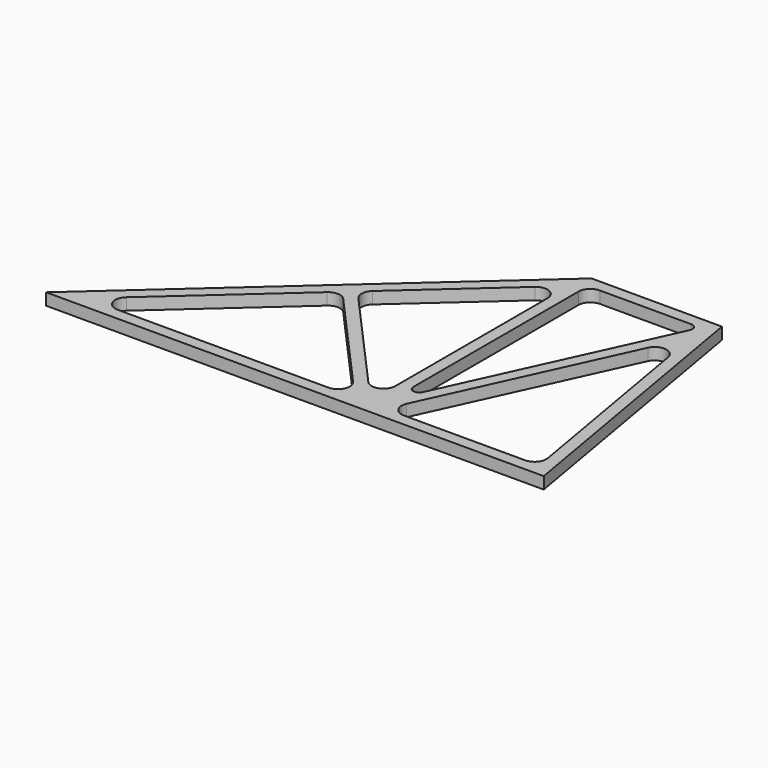
from build123d import *

# Parameters (mm, degrees)
F1_DEPTH = 12.7


with BuildPart() as f1:
    # F0 (on Top) → F1 (new body)
    with BuildSketch(Plane.XY):
        Polygon((219.786288, 270.0056), (-120.990471, -34.7944), (412.409529, -34.7944), (359.51203, 270.0056), align=None)
        with BuildLine():
            ThreePointArc((-54.492408, -22.0944), (-66.356397, -13.92604), (-62.959075, 0.071621))
            Line((-62.959075, 0.071621), (62.597587, 112.372913))
            ThreePointArc((62.597587, 112.372913), (71.770904, 115.587217), (80.530275, 111.373559))
            Line((80.530275, 111.373559), (180.975604, -0.927733))
            ThreePointArc((180.975604, -0.927733), (183.103044, -14.579153), (171.509583, -22.0944))
            Line((171.509583, -22.0944), (-54.492408, -22.0944))
        make_face(mode=Mode.SUBTRACT)
        with BuildLine():
            ThreePointArc((213.436288, 15.079148), (205.267929, 3.215159), (191.270267, 6.612481))
            Line((191.270267, 6.612481), (89.996295, 119.840225))
            ThreePointArc((89.996295, 119.840225), (86.781991, 129.013542), (90.995649, 137.772912))
            Line((90.995649, 137.772912), (192.269622, 228.355107))
            ThreePointArc((192.269622, 228.355107), (205.921042, 230.482547), (213.436288, 218.889086))
            Line((213.436288, 218.889086), (213.436288, 15.079148))
        make_face(mode=Mode.SUBTRACT)
        with BuildLine():
            ThreePointArc((335.022059, 201.344663), (348.200544, 208.646823), (359.079772, 198.223945))
            Line((359.079772, 198.223945), (394.734689, -7.222798))
            ThreePointArc((394.734689, -7.222798), (391.939481, -17.570911), (382.22173, -22.0944))
            Line((382.22173, -22.0944), (252.386372, -22.0944))
            ThreePointArc((252.386372, -22.0944), (241.697535, -16.252881), (240.841618, -4.102079))
            Line((240.841618, -4.102079), (335.022059, 201.344663))
        make_face(mode=Mode.SUBTRACT)
        with BuildLine():
            ThreePointArc((226.13628, 244.6056), (229.856024, 253.585856), (238.83628, 257.3056))
            Line((238.83628, 257.3056), (336.808323, 257.3056))
            ThreePointArc((336.808323, 257.3056), (342.152742, 254.384841), (342.5807, 248.30944))
            Line((342.5807, 248.30944), (238.258657, 20.739642))
            ThreePointArc((238.258657, 20.739642), (231.132045, 17.181889), (226.13628, 23.385803))
            Line((226.13628, 23.385803), (226.13628, 244.6056))
        make_face(mode=Mode.SUBTRACT)
    extrude(amount=F1_DEPTH)


solid = f1.part
